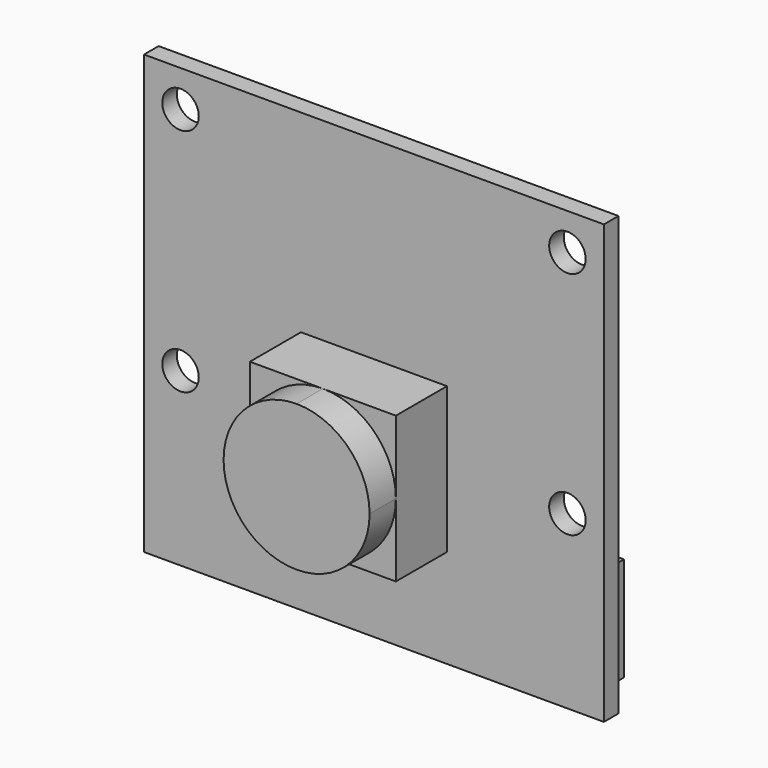
from build123d import *

# Parameters (mm, degrees)
F0_W     = 25.2
F0_H     = 24
F0_R     = 1
F3_DEPTH = 1
F4_DEPTH = 3.5
F5_DEPTH = 5.3
F2_W     = 21.4
F2_H     = 5.7
F6_DEPTH = 3.75


with BuildPart() as f3:
    # F0 (on Front) → F3 (new body)
    with BuildSketch(Plane.XZ):
        Rectangle(F0_W, F0_H)
        with Locations((-10.6, -2.6)):
            Circle(F0_R, mode=Mode.SUBTRACT)
        with Locations((10.6, -2.6)):
            Circle(F0_R, mode=Mode.SUBTRACT)
        with Locations((-10.6, 10)):
            Circle(F0_R, mode=Mode.SUBTRACT)
        with Locations((10.6, 10)):
            Circle(F0_R, mode=Mode.SUBTRACT)
    extrude(amount=-F3_DEPTH)

    # F1 (on face) → F4 (join)
    with BuildSketch(Plane.XZ):
        with BuildLine():
            Line((0, -6.6), (4, -6.6))
            Line((4, -6.6), (4, -2.6))
            ThreePointArc((4, -2.6), (2.828427, -5.428427), (0, -6.6))
        make_face()
        with BuildLine():
            Line((-4, -6.6), (0, -6.6))
            ThreePointArc((0, -6.6), (-2.828427, -5.428427), (-4, -2.6))
            Line((-4, -2.6), (-4, -6.6))
        make_face()
        with BuildLine():
            ThreePointArc((0, 1.4), (2.828427, 0.228427), (4, -2.6))
            Line((4, -2.6), (4, 1.4))
            Line((4, 1.4), (0, 1.4))
        make_face()
        with BuildLine():
            Line((-4, 1.4), (-4, -2.6))
            ThreePointArc((-4, -2.6), (-2.828427, 0.228427), (0, 1.4))
            Line((0, 1.4), (-4, 1.4))
        make_face()
    extrude(amount=F4_DEPTH)

    # F1 (on face) → F5 (join)
    with BuildSketch(Plane.XZ):
        with BuildLine():
            ThreePointArc((-4, -2.6), (-2.828427, -5.428427), (0, -6.6))
            ThreePointArc((0, -6.6), (2.828427, -5.428427), (4, -2.6))
            ThreePointArc((4, -2.6), (2.828427, 0.228427), (0, 1.4))
            ThreePointArc((0, 1.4), (-2.828427, 0.228427), (-4, -2.6))
        make_face()
    extrude(amount=F5_DEPTH)

    # F2 (on face) → F6 (join)
    with BuildSketch(Plane.XZ):
        with Locations((0, -9.15)):
            Rectangle(F2_W, F2_H)
    extrude(amount=-F6_DEPTH)


solid = f3.part
